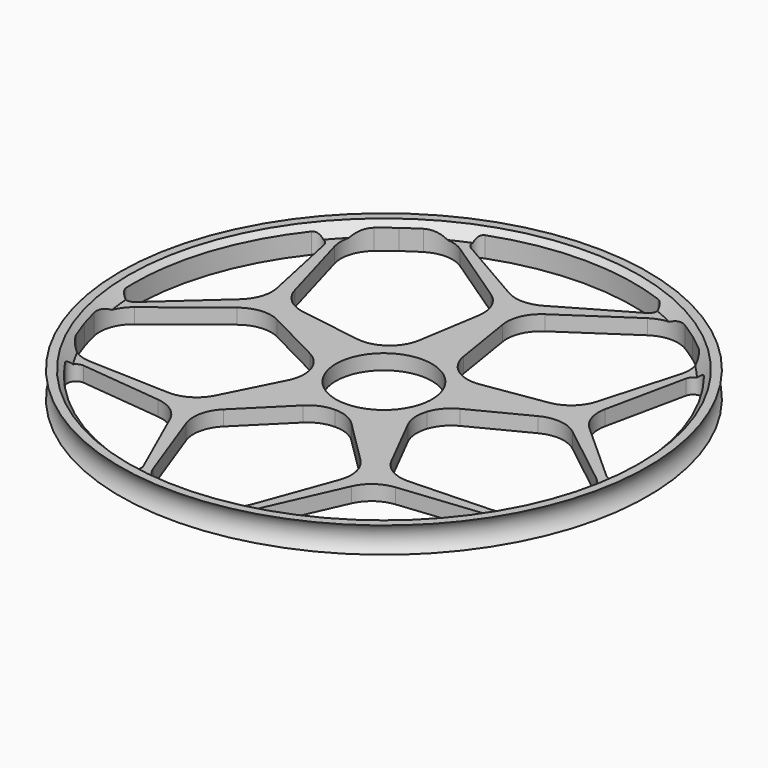
from build123d import *

# Parameters (mm, degrees)
POCKET_DEPTH       = 346.649458
POCKET_DEPTH_BACK  = 352.649458
POLARPATTERN_COUNT = 5


with BuildPart() as part:
    # Sketch002 → Revolution (revolve)
    with BuildSketch(Plane.XZ):
        with BuildLine():
            Line((-11.15, 0), (-11.15, 3.5))
            Line((-56.742641, 3.5), (-11.15, 3.5))
            Line((-59.242641, 6), (-56.742641, 3.5))
            Line((-61.242641, 6), (-59.242641, 6))
            ThreePointArc((-61.242641, 0), (-60, 3), (-61.242641, 6))
            Line((-11.15, 0), (-61.242641, 0))
        make_face()
    revolve(axis=Axis((0, 0, 0), (0, 0, 1)))

    # Sketch001 → Pocket (cut, two sides)
    with BuildSketch(Plane.XY) as pocket_sk:
        with BuildLine():
            Line((-5.121507, 16.645915), (-2.815506, 30.94367))
            ThreePointArc((-2.815506, 30.94367), (-3.375056, 35.403086), (-6.250726, 38.857072))
            Line((-6.250726, 38.857072), (-21.705684, 49.244928))
            ThreePointArc((-21.705684, 49.244928), (-26.004486, 50.603658), (-30.355346, 49.422191))
            ThreePointArc((-30.355346, 49.422191), (-32.247665, 48.208797), (-34.091545, 46.922986))
            Line((-8.317161, 11.44759), (-34.091545, 46.922986))
            ThreePointArc((-8.317161, 11.44759), (-6.204238, 13.730099), (-5.121507, 16.645915))
        make_face()
        with BuildLine():
            Line((-20.423529, 50.79153), (-4, 41.309401))
            ThreePointArc((-4, 41.309401), (0, 40.237604), (4, 41.309401))
            Line((4, 41.309401), (20.423529, 50.79153))
            ThreePointArc((20.423529, 50.79153), (21.41636, 52.692768), (20.117226, 54.399423))
            ThreePointArc((20.117226, 54.399423), (0, 58), (-20.117226, 54.399423))
            ThreePointArc((-20.117226, 54.399423), (-21.41636, 52.692768), (-20.423529, 50.79153))
        make_face()
        with BuildLine():
            Line((5.121507, 16.645915), (2.815506, 30.94367))
            ThreePointArc((6.250726, 38.857072), (3.375056, 35.403086), (2.815506, 30.94367))
            Line((6.250726, 38.857072), (21.705684, 49.244928))
            ThreePointArc((30.355346, 49.422191), (26.004486, 50.603658), (21.705684, 49.244928))
            ThreePointArc((34.091545, 46.922986), (32.247665, 48.208797), (30.355346, 49.422191))
            Line((8.317161, 11.44759), (34.091545, 46.922986))
            ThreePointArc((5.121507, 16.645915), (6.204238, 13.730099), (8.317161, 11.44759))
        make_face()
    pocket = extrude(amount=-POCKET_DEPTH, mode=Mode.SUBTRACT) + extrude(pocket_sk.sketch, amount=POCKET_DEPTH_BACK, mode=Mode.SUBTRACT)

    # PolarPattern: Pocket ×5 about axis
    polarpattern_axis = Axis((0, 0, 0), (0, 0, 1))
    for i in range(1, POLARPATTERN_COUNT):
        add(pocket.rotate(polarpattern_axis, i * 360 / POLARPATTERN_COUNT), mode=Mode.SUBTRACT)


solid = part.part
